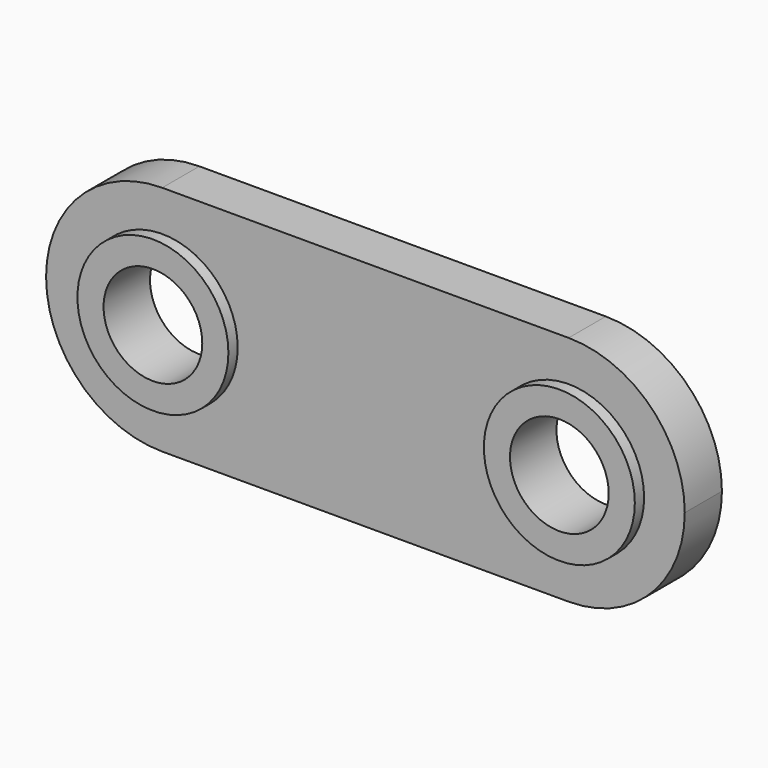
from build123d import *

# Parameters (mm, degrees)
F0_R     = 6.5
F0_R_2   = 4.25
F1_DEPTH = 4
F2_DEPTH = 5


with BuildPart() as f1:
    # F0 (on Front) → F1 (new body)
    with BuildSketch(Plane.XZ):
        with BuildLine():
            ThreePointArc((-17.5, -10), (-10.428932, -7.071068), (-7.5, 0))
            ThreePointArc((-7.5, 0), (-10.428932, 7.071068), (-17.5, 10))
            ThreePointArc((-17.5, 10), (-27.5, 0), (-17.5, -10))
        make_face()
        with Locations((-17.5, 0)):
            Circle(F0_R, mode=Mode.SUBTRACT)
        with BuildLine():
            ThreePointArc((-17.5, 10), (-10.428932, 7.071068), (-7.5, 0))
            ThreePointArc((-7.5, 0), (-10.428932, -7.071068), (-17.5, -10))
            Line((-17.5, -10), (17.5, -10))
            ThreePointArc((17.5, -10), (7.5, 0), (17.5, 10))
            Line((17.5, 10), (-17.5, 10))
        make_face()
        with BuildLine():
            ThreePointArc((27.5, 0), (24.571068, 7.071068), (17.5, 10))
            ThreePointArc((17.5, 10), (7.5, 0), (17.5, -10))
            ThreePointArc((17.5, -10), (24.571068, -7.071068), (27.5, 0))
        make_face()
        with Locations((17.5, 0)):
            Circle(F0_R, mode=Mode.SUBTRACT)
        with Locations((-17.5, 0)):
            Circle(F0_R)
        with Locations((-17.5, 0)):
            Circle(F0_R_2, mode=Mode.SUBTRACT)
        with Locations((17.5, 0)):
            Circle(F0_R)
        with Locations((17.5, 0)):
            Circle(F0_R_2, mode=Mode.SUBTRACT)
    extrude(amount=F1_DEPTH)

    # F0 (on Front) → F2 (join)
    with BuildSketch(Plane.XZ):
        with Locations((17.5, 0)):
            Circle(F0_R)
        with Locations((17.5, 0)):
            Circle(F0_R_2, mode=Mode.SUBTRACT)
        with Locations((-17.5, 0)):
            Circle(F0_R)
        with Locations((-17.5, 0)):
            Circle(F0_R_2, mode=Mode.SUBTRACT)
    extrude(amount=F2_DEPTH)


solid = f1.part
